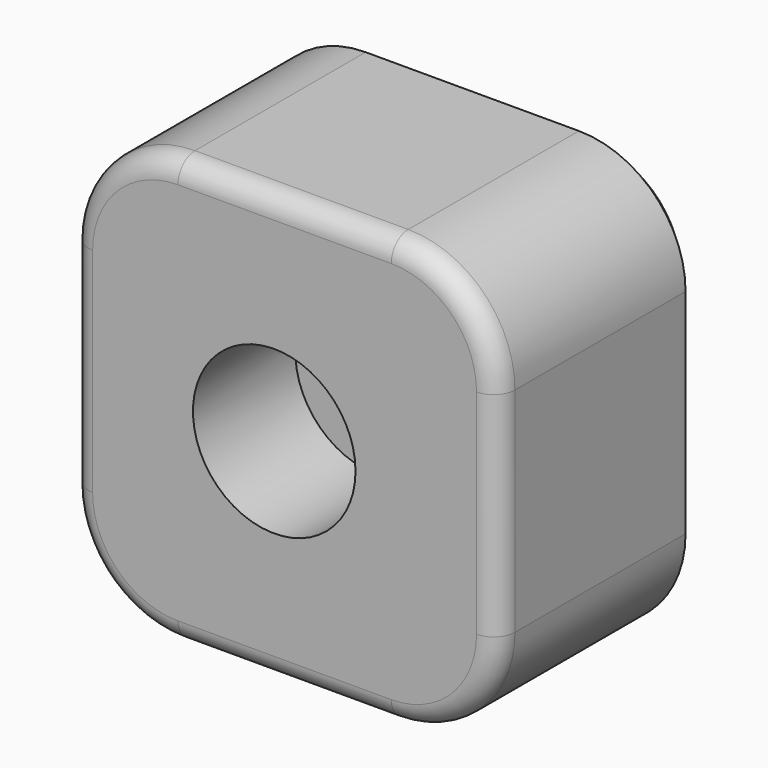
from build123d import *

# Parameters (mm, degrees)
F1_DEPTH = 60
F2_R     = 5
F3_SIZE  = 5
F4_R     = 19.052839
F5_DEPTH = 30


with BuildPart() as f1:
    # F0 (on Front) → F1 (new body)
    with BuildSketch(Plane.XZ):
        with BuildLine():
            Line((36.56146, 58.775878), (-13.43854, 58.775878))
            ThreePointArc((-13.43854, 58.775878), (-31.116209, 51.453547), (-38.43854, 33.775878))
            Line((-38.43854, 33.775878), (-38.43854, -16.224122))
            ThreePointArc((-38.43854, -16.224122), (-31.116209, -33.901792), (-13.43854, -41.224122))
            Line((-13.43854, -41.224122), (36.56146, -41.224122))
            ThreePointArc((36.56146, -41.224122), (54.23913, -33.901792), (61.56146, -16.224122))
            Line((61.56146, -16.224122), (61.56146, 33.775878))
            ThreePointArc((61.56146, 33.775878), (54.23913, 51.453547), (36.56146, 58.775878))
        make_face()
    extrude(amount=F1_DEPTH)

    # F2
    f2_edges = [f1.edges().sort_by_distance(p)[0] for p in [
        (11.56146, -60, 58.775878),
        (-31.116209, -60, 51.453547),
        (-38.43854, -60, 8.775878),
        (-31.116209, -60, -33.901792),
        (11.56146, -60, -41.224122),
        (54.23913, -60, -33.901792),
        (61.56146, -60, 8.775878),
        (54.23913, -60, 51.453547),
    ]]
    fillet(f2_edges, radius=F2_R)

    # F3
    f3_edges = [f1.edges().sort_by_distance(p)[0] for p in [
        (11.56146, 0, 58.775878),
        (-31.116209, 0, 51.453547),
        (-38.43854, 0, 8.775878),
        (-31.116209, 0, -33.901792),
        (11.56146, 0, -41.224122),
        (54.23913, 0, -33.901792),
        (61.56146, 0, 8.775878),
        (54.23913, 0, 51.453547),
    ]]
    chamfer(f3_edges, length=F3_SIZE)

    # F4 (on face) → F5 (cut)
    with BuildSketch(Plane.XZ.offset(60)):
        with Locations((9.132151, 8.183358)):
            Circle(F4_R)
    extrude(amount=-F5_DEPTH, mode=Mode.SUBTRACT)


solid = f1.part
